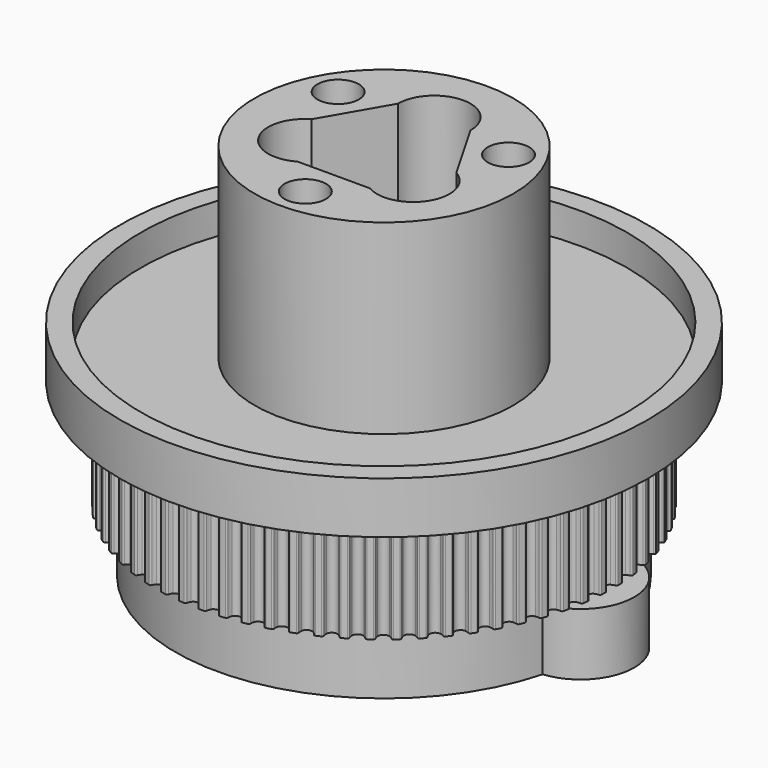
from build123d import *

# Parameters (mm, degrees)
REVOLUTION001_ANGLE = 360
SKETCHGEAR_R        = 4
PAD_DEPTH           = 10.5
SKETCH039_R         = 2
POCKET009_DEPTH     = 10
POLARPATTERN_COUNT  = 3
SKETCH040_R         = 20.15
SKETCH040_R_2       = 15
PAD019_DEPTH        = 6
POCKET013_DEPTH     = 36.501
PAD021_DEPTH        = 6


with BuildPart() as part:
    # Sketch → Revolution001 (revolve, symmetric)
    with BuildSketch(Plane.XZ) as revolution001_sk:
        Polygon((12.5, 19), (12.5, 1), (23.5, 1), (23.5, 4), (25.5, 4), (25.5, -1), (4, -1), (4, 19), align=None)
    revolve(axis=Axis((0, 0, 0), (0, 0, 1)), revolution_arc=REVOLUTION001_ANGLE / 2)
    revolve(revolution001_sk.sketch, axis=Axis((0, 0, 0), (0, 0, -1)), revolution_arc=REVOLUTION001_ANGLE / 2)

    # SketchGear (on Face6 of Revolution001) → Pad (new body)
    with BuildSketch(Plane(origin=(0, 0, -1), x_dir=(1, 0, 0), z_dir=(0, 0, -1))):
        with BuildLine():
            ThreePointArc((22.027692, -0.75), (21.983758, -0.643934), (21.877692, -0.6))
            ThreePointArc((21.877692, -0.6), (21.698403, -0.544218), (21.527692, -0.466025))
            ThreePointArc((21.527692, -0.466025), (21.277692, 0), (21.527692, 0.466025))
            ThreePointArc((21.527692, 0.466025), (21.698403, 0.544218), (21.877692, 0.6))
            ThreePointArc((21.877692, 0.6), (21.983758, 0.643934), (22.027692, 0.75))
            Line((22.027692, 0.75), (22.006245, 1.227566))
            ThreePointArc((22.006245, 1.227566), (21.95298, 1.329267), (21.843402, 1.363517))
            ThreePointArc((21.843402, 1.363517), (21.659835, 1.403003), (21.482802, 1.465578))
            ThreePointArc((21.482802, 1.465578), (21.192034, 1.907318), (21.399254, 2.393877))
            ThreePointArc((21.399254, 2.393877), (21.562268, 2.487057), (21.735835, 2.558686))
            ThreePointArc((21.735835, 2.558686), (21.837536, 2.611951), (21.871786, 2.721528))
            Line((21.871786, 2.721528), (21.807616, 3.195249))
            ThreePointArc((21.807616, 3.195249), (21.745449, 3.291766), (21.633243, 3.316055))
            ThreePointArc((21.633243, 3.316055), (21.446875, 3.338928), (21.264945, 3.385382))
            ThreePointArc((21.264945, 3.385382), (20.935751, 3.799279), (21.098521, 4.302454))
            ThreePointArc((21.098521, 4.302454), (21.252527, 4.409871), (21.418974, 4.496771))
            ThreePointArc((21.418974, 4.496771), (21.515491, 4.558937), (21.53978, 4.671143))
            Line((21.53978, 4.671143), (21.433405, 5.137206))
            ThreePointArc((21.433405, 5.137206), (21.362836, 5.227761), (21.248905, 5.241894))
            ThreePointArc((21.248905, 5.241894), (21.061237, 5.247969), (20.875876, 5.277928))
            ThreePointArc((20.875876, 5.277928), (20.510905, 5.66065), (20.627916, 6.17639))
            ThreePointArc((20.627916, 6.17639), (20.771673, 6.29718), (20.92966, 6.39865))
            ThreePointArc((20.92966, 6.39865), (21.020216, 6.469218), (21.034349, 6.58315))
            Line((21.034349, 6.58315), (20.886625, 7.0378))
            ThreePointArc((20.886625, 7.0378), (20.808223, 7.121666), (20.693483, 7.125529))
            ThreePointArc((20.693483, 7.125529), (20.506026, 7.114757), (20.318726, 7.12798))
            ThreePointArc((20.318726, 7.12798), (19.920917, 7.476445), (19.991226, 8.000598))
            ThreePointArc((19.991226, 8.000598), (20.123577, 8.133788), (20.271833, 8.249011))
            ThreePointArc((20.271833, 8.249011), (20.355699, 8.327413), (20.359562, 8.442153))
            Line((20.359562, 8.442153), (20.171678, 8.881731))
            ThreePointArc((20.171678, 8.881731), (20.086074, 8.958231), (19.97145, 8.951794))
            ThreePointArc((19.97145, 8.951794), (19.785713, 8.924261), (19.597981, 8.920641))
            ThreePointArc((19.597981, 8.920641), (19.170538, 9.232045), (19.193579, 9.76039))
            ThreePointArc((19.193579, 9.76039), (19.313458, 9.904907), (19.450789, 10.032956))
            ThreePointArc((19.450789, 10.032956), (19.527289, 10.11856), (19.520852, 10.233184))
            Line((19.520852, 10.233184), (19.29432, 10.654151))
            ThreePointArc((19.29432, 10.654151), (19.202204, 10.722669), (19.088618, 10.705983))
            ThreePointArc((19.088618, 10.705983), (18.906097, 10.661912), (18.719445, 10.641479))
            ThreePointArc((18.719445, 10.641479), (18.265809, 10.913313), (18.241397, 11.441597))
            ThreePointArc((18.241397, 11.441597), (18.347839, 11.596278), (18.473139, 11.736122))
            ThreePointArc((18.473139, 11.736122), (18.541657, 11.828238), (18.524971, 11.941824))
            Line((18.524971, 11.941824), (18.261616, 12.34079))
            ThreePointArc((18.261616, 12.34079), (18.163729, 12.400775), (18.052096, 12.373975))
            ThreePointArc((18.052096, 12.373975), (17.87426, 12.31372), (17.690192, 12.276637))
            ThreePointArc((17.690192, 12.276637), (17.214014, 12.506714), (17.142346, 13.030682))
            ThreePointArc((17.142346, 13.030682), (17.234494, 13.194283), (17.346754, 13.344795))
            ThreePointArc((17.346754, 13.344795), (17.406739, 13.442682), (17.379938, 13.554315))
            Line((17.379938, 13.554315), (17.08188, 13.928068))
            ThreePointArc((17.08188, 13.928068), (16.97901, 13.979037), (16.870229, 13.942338))
            ThreePointArc((16.870229, 13.942338), (16.69851, 13.866385), (16.518507, 13.812952))
            ThreePointArc((16.518507, 13.812952), (16.023623, 13.999418), (15.905274, 14.514853))
            ThreePointArc((15.905274, 14.514853), (15.982386, 14.686054), (16.080702, 14.846024))
            ThreePointArc((16.080702, 14.846024), (16.131672, 14.948894), (16.094972, 15.057675))
            Line((16.094972, 15.057675), (15.764611, 15.403206))
            ThreePointArc((15.764611, 15.403206), (15.657586, 15.444749), (15.552533, 15.398446))
            ThreePointArc((15.552533, 15.398446), (15.388314, 15.307406), (15.213825, 15.238052))
            ThreePointArc((15.213825, 15.238052), (14.704218, 15.379407), (14.540143, 15.882158))
            ThreePointArc((14.540143, 15.882158), (14.601598, 16.059583), (14.685179, 16.227721))
            ThreePointArc((14.685179, 16.227721), (14.726722, 16.334746), (14.680419, 16.4398))
            Line((14.680419, 16.4398), (14.320415, 16.754326))
            ThreePointArc((14.320415, 16.754326), (14.210097, 16.786108), (14.109617, 16.730575))
            ThreePointArc((14.109617, 16.730575), (13.954219, 16.62518), (13.78665, 16.540465))
            ThreePointArc((13.78665, 16.540465), (13.266424, 16.63557), (13.057943, 17.121589))
            ThreePointArc((13.057943, 17.121589), (13.103247, 17.303809), (13.171419, 17.478762))
            ThreePointArc((13.171419, 17.478762), (13.203201, 17.58908), (13.147668, 17.68956))
            Line((13.147668, 17.68956), (12.760919, 17.97055))
            ThreePointArc((12.760919, 17.97055), (12.648196, 17.992315), (12.553098, 17.927998))
            ThreePointArc((12.553098, 17.927998), (12.407774, 17.809099), (12.248473, 17.709704))
            ThreePointArc((12.248473, 17.709704), (11.721816, 17.757793), (11.470608, 18.223168))
            ThreePointArc((11.470608, 18.223168), (11.499395, 18.408715), (11.551611, 18.589075))
            ThreePointArc((11.551611, 18.589075), (11.573376, 18.701798), (11.509059, 18.796895))
            Line((11.509059, 18.796895), (11.09868, 19.042086))
            ThreePointArc((11.09868, 19.042086), (10.984459, 19.053659), (10.89551, 18.981077))
            ThreePointArc((10.89551, 18.981077), (10.761429, 18.849629), (10.611679, 18.736355))
            ThreePointArc((10.611679, 18.736355), (10.082831, 18.737041), (9.790919, 19.178024))
            ThreePointArc((9.790919, 19.178024), (9.802958, 19.365404), (9.838795, 19.549719))
            ThreePointArc((9.838795, 19.549719), (9.850369, 19.663939), (9.777786, 19.752889))
            Line((9.777786, 19.752889), (9.34708, 19.960306))
            ThreePointArc((9.34708, 19.960306), (9.232282, 19.961594), (9.150197, 19.88133))
            ThreePointArc((9.150197, 19.88133), (9.028439, 19.738393), (8.889445, 19.612151))
            ThreePointArc((8.889445, 19.612151), (8.362666, 19.565429), (8.032399, 19.97847))
            ThreePointArc((8.032399, 19.97847), (8.027592, 20.166175), (8.046764, 20.35296))
            ThreePointArc((8.046764, 20.35296), (8.048052, 20.467758), (7.967789, 20.549843))
            Line((7.967789, 20.549843), (7.520224, 20.717817))
            ThreePointArc((7.520224, 20.717817), (7.405772, 20.70881), (7.331213, 20.621511))
            ThreePointArc((7.331213, 20.621511), (7.222757, 20.468235), (7.095639, 20.330042))
            ThreePointArc((7.095639, 20.330042), (6.575168, 20.236288), (6.209206, 20.618062))
            ThreePointArc((6.209206, 20.618062), (6.187594, 20.80458), (6.189945, 20.992332))
            ThreePointArc((6.189945, 20.992332), (6.180937, 21.106783), (6.093639, 21.181343))
            Line((6.093639, 21.181343), (5.632819, 21.308521))
            ThreePointArc((5.632819, 21.308521), (5.519636, 21.289291), (5.453201, 21.19566))
            ThreePointArc((5.453201, 21.19566), (5.358922, 21.033279), (5.244703, 20.884247))
            ThreePointArc((5.244703, 20.884247), (4.734732, 20.744216), (4.336021, 21.091648))
            ThreePointArc((4.336021, 21.091648), (4.297776, 21.275479), (4.283288, 21.462685))
            ThreePointArc((4.283288, 21.462685), (4.264057, 21.575868), (4.170427, 21.642303))
            Line((4.170427, 21.642303), (3.700061, 21.727661))
            ThreePointArc((3.700061, 21.727661), (3.589058, 21.698362), (3.531284, 21.599154))
            ThreePointArc((3.531284, 21.599154), (3.45194, 21.428975), (3.35154, 21.270305))
            ThreePointArc((3.35154, 21.270305), (2.856174, 21.085124), (2.427925, 21.395417))
            ThreePointArc((2.427925, 21.395417), (2.373355, 21.575079), (2.342144, 21.760234))
            ThreePointArc((2.342144, 21.760234), (2.312845, 21.871237), (2.213637, 21.929011))
            Line((2.213637, 21.929011), (1.737513, 21.971863))
            ThreePointArc((1.737513, 21.971863), (1.629583, 21.932732), (1.580935, 21.828744))
            ThreePointArc((1.580935, 21.828744), (1.517165, 21.652138), (1.431392, 21.485107))
            ThreePointArc((1.431392, 21.485107), (0.95462, 21.256267), (0.50028, 21.526923))
            ThreePointArc((0.50028, 21.526923), (0.429826, 21.70097), (0.382143, 21.882582))
            ThreePointArc((0.382143, 21.882582), (0.343012, 21.990512), (0.239024, 22.03916))
            Line((0.239024, 22.03916), (-0.239024, 22.03916))
            ThreePointArc((-0.239024, 22.03916), (-0.343012, 21.990512), (-0.382143, 21.882582))
            ThreePointArc((-0.382143, 21.882582), (-0.429826, 21.70097), (-0.50028, 21.526923))
            ThreePointArc((-0.50028, 21.526923), (-0.95462, 21.256267), (-1.431392, 21.485107))
            ThreePointArc((-1.431392, 21.485107), (-1.517165, 21.652138), (-1.580935, 21.828744))
            ThreePointArc((-1.580935, 21.828744), (-1.629583, 21.932732), (-1.737513, 21.971863))
            Line((-1.737513, 21.971863), (-2.213637, 21.929011))
            ThreePointArc((-2.213637, 21.929011), (-2.312845, 21.871237), (-2.342144, 21.760234))
            ThreePointArc((-2.342144, 21.760234), (-2.373355, 21.575079), (-2.427925, 21.395417))
            ThreePointArc((-2.427925, 21.395417), (-2.856174, 21.085124), (-3.35154, 21.270305))
            ThreePointArc((-3.35154, 21.270305), (-3.45194, 21.428975), (-3.531284, 21.599154))
            ThreePointArc((-3.531284, 21.599154), (-3.589058, 21.698362), (-3.700061, 21.727661))
            Line((-3.700061, 21.727661), (-4.170427, 21.642303))
            ThreePointArc((-4.170427, 21.642303), (-4.264057, 21.575868), (-4.283288, 21.462685))
            ThreePointArc((-4.283288, 21.462685), (-4.297776, 21.275479), (-4.336021, 21.091648))
            ThreePointArc((-4.336021, 21.091648), (-4.734732, 20.744216), (-5.244703, 20.884247))
            ThreePointArc((-5.244703, 20.884247), (-5.358922, 21.033279), (-5.453201, 21.19566))
            ThreePointArc((-5.453201, 21.19566), (-5.519636, 21.289291), (-5.632819, 21.308521))
            Line((-5.632819, 21.308521), (-6.093639, 21.181343))
            ThreePointArc((-6.093639, 21.181343), (-6.180937, 21.106783), (-6.189945, 20.992332))
            ThreePointArc((-6.189945, 20.992332), (-6.187594, 20.80458), (-6.209206, 20.618062))
            ThreePointArc((-6.209206, 20.618062), (-6.575168, 20.236288), (-7.095639, 20.330042))
            ThreePointArc((-7.095639, 20.330042), (-7.222757, 20.468235), (-7.331213, 20.621511))
            ThreePointArc((-7.331213, 20.621511), (-7.405772, 20.70881), (-7.520224, 20.717817))
            Line((-7.520224, 20.717817), (-7.967789, 20.549843))
            ThreePointArc((-7.967789, 20.549843), (-8.048052, 20.467758), (-8.046764, 20.35296))
            ThreePointArc((-8.046764, 20.35296), (-8.027592, 20.166175), (-8.032399, 19.97847))
            ThreePointArc((-8.032399, 19.97847), (-8.362666, 19.565429), (-8.889445, 19.612151))
            ThreePointArc((-8.889445, 19.612151), (-9.028439, 19.738393), (-9.150197, 19.88133))
            ThreePointArc((-9.150197, 19.88133), (-9.232282, 19.961594), (-9.34708, 19.960306))
            Line((-9.34708, 19.960306), (-9.777786, 19.752889))
            ThreePointArc((-9.777786, 19.752889), (-9.850369, 19.663939), (-9.838795, 19.549719))
            ThreePointArc((-9.838795, 19.549719), (-9.802958, 19.365404), (-9.790919, 19.178024))
            ThreePointArc((-9.790919, 19.178024), (-10.082831, 18.737041), (-10.611679, 18.736355))
            ThreePointArc((-10.611679, 18.736355), (-10.761429, 18.849629), (-10.89551, 18.981077))
            ThreePointArc((-10.89551, 18.981077), (-10.984459, 19.053659), (-11.09868, 19.042086))
            Line((-11.09868, 19.042086), (-11.509059, 18.796895))
            ThreePointArc((-11.509059, 18.796895), (-11.573376, 18.701798), (-11.551611, 18.589075))
            ThreePointArc((-11.551611, 18.589075), (-11.499395, 18.408715), (-11.470608, 18.223168))
            ThreePointArc((-11.470608, 18.223168), (-11.721816, 17.757793), (-12.248473, 17.709704))
            ThreePointArc((-12.248473, 17.709704), (-12.407774, 17.809099), (-12.553098, 17.927998))
            ThreePointArc((-12.553098, 17.927998), (-12.648196, 17.992315), (-12.760919, 17.97055))
            Line((-12.760919, 17.97055), (-13.147668, 17.68956))
            ThreePointArc((-13.147668, 17.68956), (-13.203201, 17.58908), (-13.171419, 17.478762))
            ThreePointArc((-13.171419, 17.478762), (-13.103247, 17.303809), (-13.057943, 17.121589))
            ThreePointArc((-13.057943, 17.121589), (-13.266424, 16.63557), (-13.78665, 16.540465))
            ThreePointArc((-13.78665, 16.540465), (-13.954219, 16.62518), (-14.109617, 16.730575))
            ThreePointArc((-14.109617, 16.730575), (-14.210097, 16.786108), (-14.320415, 16.754326))
            Line((-14.320415, 16.754326), (-14.680419, 16.4398))
            ThreePointArc((-14.680419, 16.4398), (-14.726722, 16.334746), (-14.685179, 16.227721))
            ThreePointArc((-14.685179, 16.227721), (-14.601598, 16.059583), (-14.540143, 15.882158))
            ThreePointArc((-14.540143, 15.882158), (-14.704218, 15.379407), (-15.213825, 15.238052))
            ThreePointArc((-15.213825, 15.238052), (-15.388314, 15.307406), (-15.552533, 15.398446))
            ThreePointArc((-15.552533, 15.398446), (-15.657586, 15.444749), (-15.764611, 15.403206))
            Line((-15.764611, 15.403206), (-16.094972, 15.057675))
            ThreePointArc((-16.094972, 15.057675), (-16.131672, 14.948894), (-16.080702, 14.846024))
            ThreePointArc((-16.080702, 14.846024), (-15.982386, 14.686054), (-15.905274, 14.514853))
            ThreePointArc((-15.905274, 14.514853), (-16.023623, 13.999418), (-16.518507, 13.812952))
            ThreePointArc((-16.518507, 13.812952), (-16.69851, 13.866385), (-16.870229, 13.942338))
            ThreePointArc((-16.870229, 13.942338), (-16.97901, 13.979037), (-17.08188, 13.928068))
            Line((-17.08188, 13.928068), (-17.379938, 13.554315))
            ThreePointArc((-17.379938, 13.554315), (-17.406739, 13.442682), (-17.346754, 13.344795))
            ThreePointArc((-17.346754, 13.344795), (-17.234494, 13.194283), (-17.142346, 13.030682))
            ThreePointArc((-17.142346, 13.030682), (-17.214014, 12.506714), (-17.690192, 12.276637))
            ThreePointArc((-17.690192, 12.276637), (-17.87426, 12.31372), (-18.052096, 12.373975))
            ThreePointArc((-18.052096, 12.373975), (-18.163729, 12.400775), (-18.261616, 12.34079))
            Line((-18.261616, 12.34079), (-18.524971, 11.941824))
            ThreePointArc((-18.524971, 11.941824), (-18.541657, 11.828238), (-18.473139, 11.736122))
            ThreePointArc((-18.473139, 11.736122), (-18.347839, 11.596278), (-18.241397, 11.441597))
            ThreePointArc((-18.241397, 11.441597), (-18.265809, 10.913313), (-18.719445, 10.641479))
            ThreePointArc((-18.719445, 10.641479), (-18.906097, 10.661912), (-19.088618, 10.705983))
            ThreePointArc((-19.088618, 10.705983), (-19.202204, 10.722669), (-19.29432, 10.654151))
            Line((-19.29432, 10.654151), (-19.520852, 10.233184))
            ThreePointArc((-19.520852, 10.233184), (-19.527289, 10.11856), (-19.450789, 10.032956))
            ThreePointArc((-19.450789, 10.032956), (-19.313458, 9.904907), (-19.193579, 9.76039))
            ThreePointArc((-19.193579, 9.76039), (-19.170538, 9.232045), (-19.597981, 8.920641))
            ThreePointArc((-19.597981, 8.920641), (-19.785713, 8.924261), (-19.97145, 8.951794))
            ThreePointArc((-19.97145, 8.951794), (-20.086074, 8.958231), (-20.171678, 8.881731))
            Line((-20.171678, 8.881731), (-20.359562, 8.442153))
            ThreePointArc((-20.359562, 8.442153), (-20.355699, 8.327413), (-20.271833, 8.249011))
            ThreePointArc((-20.271833, 8.249011), (-20.123577, 8.133788), (-19.991226, 8.000598))
            ThreePointArc((-19.991226, 8.000598), (-19.920917, 7.476445), (-20.318726, 7.12798))
            ThreePointArc((-20.318726, 7.12798), (-20.506026, 7.114757), (-20.693483, 7.125529))
            ThreePointArc((-20.693483, 7.125529), (-20.808223, 7.121666), (-20.886625, 7.0378))
            Line((-20.886625, 7.0378), (-21.034349, 6.58315))
            ThreePointArc((-21.034349, 6.58315), (-21.020216, 6.469218), (-20.92966, 6.39865))
            ThreePointArc((-20.92966, 6.39865), (-20.771673, 6.29718), (-20.627916, 6.17639))
            ThreePointArc((-20.627916, 6.17639), (-20.510905, 5.66065), (-20.875876, 5.277928))
            ThreePointArc((-20.875876, 5.277928), (-21.061237, 5.247969), (-21.248905, 5.241894))
            ThreePointArc((-21.248905, 5.241894), (-21.362836, 5.227761), (-21.433405, 5.137206))
            Line((-21.433405, 5.137206), (-21.53978, 4.671143))
            ThreePointArc((-21.53978, 4.671143), (-21.515491, 4.558937), (-21.418974, 4.496771))
            ThreePointArc((-21.418974, 4.496771), (-21.252527, 4.409871), (-21.098521, 4.302454))
            ThreePointArc((-21.098521, 4.302454), (-20.935751, 3.799279), (-21.264945, 3.385382))
            ThreePointArc((-21.264945, 3.385382), (-21.446875, 3.338928), (-21.633243, 3.316055))
            ThreePointArc((-21.633243, 3.316055), (-21.745449, 3.291766), (-21.807616, 3.195249))
            Line((-21.807616, 3.195249), (-21.871786, 2.721528))
            ThreePointArc((-21.871786, 2.721528), (-21.837536, 2.611951), (-21.735835, 2.558686))
            ThreePointArc((-21.735835, 2.558686), (-21.562268, 2.487057), (-21.399254, 2.393877))
            ThreePointArc((-21.399254, 2.393877), (-21.192034, 1.907318), (-21.482802, 1.465578))
            ThreePointArc((-21.482802, 1.465578), (-21.659835, 1.403003), (-21.843402, 1.363517))
            ThreePointArc((-21.843402, 1.363517), (-21.95298, 1.329267), (-22.006245, 1.227566))
            Line((-22.006245, 1.227566), (-22.027692, 0.75))
            ThreePointArc((-22.027692, 0.75), (-21.983758, 0.643934), (-21.877692, 0.6))
            ThreePointArc((-21.877692, 0.6), (-21.698403, 0.544218), (-21.527692, 0.466025))
            ThreePointArc((-21.527692, 0.466025), (-21.277692, 0), (-21.527692, -0.466025))
            ThreePointArc((-21.527692, -0.466025), (-21.698403, -0.544218), (-21.877692, -0.6))
            ThreePointArc((-21.877692, -0.6), (-21.983758, -0.643934), (-22.027692, -0.75))
            Line((-22.027692, -0.75), (-22.006245, -1.227566))
            ThreePointArc((-22.006245, -1.227566), (-21.95298, -1.329267), (-21.843402, -1.363517))
            ThreePointArc((-21.843402, -1.363517), (-21.659835, -1.403003), (-21.482802, -1.465578))
            ThreePointArc((-21.482802, -1.465578), (-21.192034, -1.907318), (-21.399254, -2.393877))
            ThreePointArc((-21.399254, -2.393877), (-21.562268, -2.487057), (-21.735835, -2.558686))
            ThreePointArc((-21.735835, -2.558686), (-21.837536, -2.611951), (-21.871786, -2.721528))
            Line((-21.871786, -2.721528), (-21.807616, -3.195249))
            ThreePointArc((-21.807616, -3.195249), (-21.745449, -3.291766), (-21.633243, -3.316055))
            ThreePointArc((-21.633243, -3.316055), (-21.446875, -3.338928), (-21.264945, -3.385382))
            ThreePointArc((-21.264945, -3.385382), (-20.935751, -3.799279), (-21.098521, -4.302454))
            ThreePointArc((-21.098521, -4.302454), (-21.252527, -4.409871), (-21.418974, -4.496771))
            ThreePointArc((-21.418974, -4.496771), (-21.515491, -4.558937), (-21.53978, -4.671143))
            Line((-21.53978, -4.671143), (-21.433405, -5.137206))
            ThreePointArc((-21.433405, -5.137206), (-21.362836, -5.227761), (-21.248905, -5.241894))
            ThreePointArc((-21.248905, -5.241894), (-21.061237, -5.247969), (-20.875876, -5.277928))
            ThreePointArc((-20.875876, -5.277928), (-20.510905, -5.66065), (-20.627916, -6.17639))
            ThreePointArc((-20.627916, -6.17639), (-20.771673, -6.29718), (-20.92966, -6.39865))
            ThreePointArc((-20.92966, -6.39865), (-21.020216, -6.469218), (-21.034349, -6.58315))
            Line((-21.034349, -6.58315), (-20.886625, -7.0378))
            ThreePointArc((-20.886625, -7.0378), (-20.808223, -7.121666), (-20.693483, -7.125529))
            ThreePointArc((-20.693483, -7.125529), (-20.506026, -7.114757), (-20.318726, -7.12798))
            ThreePointArc((-20.318726, -7.12798), (-19.920917, -7.476445), (-19.991226, -8.000598))
            ThreePointArc((-19.991226, -8.000598), (-20.123577, -8.133788), (-20.271833, -8.249011))
            ThreePointArc((-20.271833, -8.249011), (-20.355699, -8.327413), (-20.359562, -8.442153))
            Line((-20.359562, -8.442153), (-20.171678, -8.881731))
            ThreePointArc((-20.171678, -8.881731), (-20.086074, -8.958231), (-19.97145, -8.951794))
            ThreePointArc((-19.97145, -8.951794), (-19.785713, -8.924261), (-19.597981, -8.920641))
            ThreePointArc((-19.597981, -8.920641), (-19.170538, -9.232045), (-19.193579, -9.76039))
            ThreePointArc((-19.193579, -9.76039), (-19.313458, -9.904907), (-19.450789, -10.032956))
            ThreePointArc((-19.450789, -10.032956), (-19.527289, -10.11856), (-19.520852, -10.233184))
            Line((-19.520852, -10.233184), (-19.29432, -10.654151))
            ThreePointArc((-19.29432, -10.654151), (-19.202204, -10.722669), (-19.088618, -10.705983))
            ThreePointArc((-19.088618, -10.705983), (-18.906097, -10.661912), (-18.719445, -10.641479))
            ThreePointArc((-18.719445, -10.641479), (-18.265809, -10.913313), (-18.241397, -11.441597))
            ThreePointArc((-18.241397, -11.441597), (-18.347839, -11.596278), (-18.473139, -11.736122))
            ThreePointArc((-18.473139, -11.736122), (-18.541657, -11.828238), (-18.524971, -11.941824))
            Line((-18.524971, -11.941824), (-18.261616, -12.34079))
            ThreePointArc((-18.261616, -12.34079), (-18.163729, -12.400775), (-18.052096, -12.373975))
            ThreePointArc((-18.052096, -12.373975), (-17.87426, -12.31372), (-17.690192, -12.276637))
            ThreePointArc((-17.690192, -12.276637), (-17.214014, -12.506714), (-17.142346, -13.030682))
            ThreePointArc((-17.142346, -13.030682), (-17.234494, -13.194283), (-17.346754, -13.344795))
            ThreePointArc((-17.346754, -13.344795), (-17.406739, -13.442682), (-17.379938, -13.554315))
            Line((-17.379938, -13.554315), (-17.08188, -13.928068))
            ThreePointArc((-17.08188, -13.928068), (-16.97901, -13.979037), (-16.870229, -13.942338))
            ThreePointArc((-16.870229, -13.942338), (-16.69851, -13.866385), (-16.518507, -13.812952))
            ThreePointArc((-16.518507, -13.812952), (-16.023623, -13.999418), (-15.905274, -14.514853))
            ThreePointArc((-15.905274, -14.514853), (-15.982386, -14.686054), (-16.080702, -14.846024))
            ThreePointArc((-16.080702, -14.846024), (-16.131672, -14.948894), (-16.094972, -15.057675))
            Line((-16.094972, -15.057675), (-15.764611, -15.403206))
            ThreePointArc((-15.764611, -15.403206), (-15.657586, -15.444749), (-15.552533, -15.398446))
            ThreePointArc((-15.552533, -15.398446), (-15.388314, -15.307406), (-15.213825, -15.238052))
            ThreePointArc((-15.213825, -15.238052), (-14.704218, -15.379407), (-14.540143, -15.882158))
            ThreePointArc((-14.540143, -15.882158), (-14.601598, -16.059583), (-14.685179, -16.227721))
            ThreePointArc((-14.685179, -16.227721), (-14.726722, -16.334746), (-14.680419, -16.4398))
            Line((-14.680419, -16.4398), (-14.320415, -16.754326))
            ThreePointArc((-14.320415, -16.754326), (-14.210097, -16.786108), (-14.109617, -16.730575))
            ThreePointArc((-14.109617, -16.730575), (-13.954219, -16.62518), (-13.78665, -16.540465))
            ThreePointArc((-13.78665, -16.540465), (-13.266424, -16.63557), (-13.057943, -17.121589))
            ThreePointArc((-13.057943, -17.121589), (-13.103247, -17.303809), (-13.171419, -17.478762))
            ThreePointArc((-13.171419, -17.478762), (-13.203201, -17.58908), (-13.147668, -17.68956))
            Line((-13.147668, -17.68956), (-12.760919, -17.97055))
            ThreePointArc((-12.760919, -17.97055), (-12.648196, -17.992315), (-12.553098, -17.927998))
            ThreePointArc((-12.553098, -17.927998), (-12.407774, -17.809099), (-12.248473, -17.709704))
            ThreePointArc((-12.248473, -17.709704), (-11.721816, -17.757793), (-11.470608, -18.223168))
            ThreePointArc((-11.470608, -18.223168), (-11.499395, -18.408715), (-11.551611, -18.589075))
            ThreePointArc((-11.551611, -18.589075), (-11.573376, -18.701798), (-11.509059, -18.796895))
            Line((-11.509059, -18.796895), (-11.09868, -19.042086))
            ThreePointArc((-11.09868, -19.042086), (-10.984459, -19.053659), (-10.89551, -18.981077))
            ThreePointArc((-10.89551, -18.981077), (-10.761429, -18.849629), (-10.611679, -18.736355))
            ThreePointArc((-10.611679, -18.736355), (-10.082831, -18.737041), (-9.790919, -19.178024))
            ThreePointArc((-9.790919, -19.178024), (-9.802958, -19.365404), (-9.838795, -19.549719))
            ThreePointArc((-9.838795, -19.549719), (-9.850369, -19.663939), (-9.777786, -19.752889))
            Line((-9.777786, -19.752889), (-9.34708, -19.960306))
            ThreePointArc((-9.34708, -19.960306), (-9.232282, -19.961594), (-9.150197, -19.88133))
            ThreePointArc((-9.150197, -19.88133), (-9.028439, -19.738393), (-8.889445, -19.612151))
            ThreePointArc((-8.889445, -19.612151), (-8.362666, -19.565429), (-8.032399, -19.97847))
            ThreePointArc((-8.032399, -19.97847), (-8.027592, -20.166175), (-8.046764, -20.35296))
            ThreePointArc((-8.046764, -20.35296), (-8.048052, -20.467758), (-7.967789, -20.549843))
            Line((-7.967789, -20.549843), (-7.520224, -20.717817))
            ThreePointArc((-7.520224, -20.717817), (-7.405772, -20.70881), (-7.331213, -20.621511))
            ThreePointArc((-7.331213, -20.621511), (-7.222757, -20.468235), (-7.095639, -20.330042))
            ThreePointArc((-7.095639, -20.330042), (-6.575168, -20.236288), (-6.209206, -20.618062))
            ThreePointArc((-6.209206, -20.618062), (-6.187594, -20.80458), (-6.189945, -20.992332))
            ThreePointArc((-6.189945, -20.992332), (-6.180937, -21.106783), (-6.093639, -21.181343))
            Line((-6.093639, -21.181343), (-5.632819, -21.308521))
            ThreePointArc((-5.632819, -21.308521), (-5.519636, -21.289291), (-5.453201, -21.19566))
            ThreePointArc((-5.453201, -21.19566), (-5.358922, -21.033279), (-5.244703, -20.884247))
            ThreePointArc((-5.244703, -20.884247), (-4.734732, -20.744216), (-4.336021, -21.091648))
            ThreePointArc((-4.336021, -21.091648), (-4.297776, -21.275479), (-4.283288, -21.462685))
            ThreePointArc((-4.283288, -21.462685), (-4.264057, -21.575868), (-4.170427, -21.642303))
            Line((-4.170427, -21.642303), (-3.700061, -21.727661))
            ThreePointArc((-3.700061, -21.727661), (-3.589058, -21.698362), (-3.531284, -21.599154))
            ThreePointArc((-3.531284, -21.599154), (-3.45194, -21.428975), (-3.35154, -21.270305))
            ThreePointArc((-3.35154, -21.270305), (-2.856174, -21.085124), (-2.427925, -21.395417))
            ThreePointArc((-2.427925, -21.395417), (-2.373355, -21.575079), (-2.342144, -21.760234))
            ThreePointArc((-2.342144, -21.760234), (-2.312845, -21.871237), (-2.213637, -21.929011))
            Line((-2.213637, -21.929011), (-1.737513, -21.971863))
            ThreePointArc((-1.737513, -21.971863), (-1.629583, -21.932732), (-1.580935, -21.828744))
            ThreePointArc((-1.580935, -21.828744), (-1.517165, -21.652138), (-1.431392, -21.485107))
            ThreePointArc((-1.431392, -21.485107), (-0.95462, -21.256267), (-0.50028, -21.526923))
            ThreePointArc((-0.50028, -21.526923), (-0.429826, -21.70097), (-0.382143, -21.882582))
            ThreePointArc((-0.382143, -21.882582), (-0.343012, -21.990512), (-0.239024, -22.03916))
            Line((-0.239024, -22.03916), (0.239024, -22.03916))
            ThreePointArc((0.239024, -22.03916), (0.343012, -21.990512), (0.382143, -21.882582))
            ThreePointArc((0.382143, -21.882582), (0.429826, -21.70097), (0.50028, -21.526923))
            ThreePointArc((0.50028, -21.526923), (0.95462, -21.256267), (1.431392, -21.485107))
            ThreePointArc((1.431392, -21.485107), (1.517165, -21.652138), (1.580935, -21.828744))
            ThreePointArc((1.580935, -21.828744), (1.629583, -21.932732), (1.737513, -21.971863))
            Line((1.737513, -21.971863), (2.213637, -21.929011))
            ThreePointArc((2.213637, -21.929011), (2.312845, -21.871237), (2.342144, -21.760234))
            ThreePointArc((2.342144, -21.760234), (2.373355, -21.575079), (2.427925, -21.395417))
            ThreePointArc((2.427925, -21.395417), (2.856174, -21.085124), (3.35154, -21.270305))
            ThreePointArc((3.35154, -21.270305), (3.45194, -21.428975), (3.531284, -21.599154))
            ThreePointArc((3.531284, -21.599154), (3.589058, -21.698362), (3.700061, -21.727661))
            Line((3.700061, -21.727661), (4.170427, -21.642303))
            ThreePointArc((4.170427, -21.642303), (4.264057, -21.575868), (4.283288, -21.462685))
            ThreePointArc((4.283288, -21.462685), (4.297776, -21.275479), (4.336021, -21.091648))
            ThreePointArc((4.336021, -21.091648), (4.734732, -20.744216), (5.244703, -20.884247))
            ThreePointArc((5.244703, -20.884247), (5.358922, -21.033279), (5.453201, -21.19566))
            ThreePointArc((5.453201, -21.19566), (5.519636, -21.289291), (5.632819, -21.308521))
            Line((5.632819, -21.308521), (6.093639, -21.181343))
            ThreePointArc((6.093639, -21.181343), (6.180937, -21.106783), (6.189945, -20.992332))
            ThreePointArc((6.189945, -20.992332), (6.187594, -20.80458), (6.209206, -20.618062))
            ThreePointArc((6.209206, -20.618062), (6.575168, -20.236288), (7.095639, -20.330042))
            ThreePointArc((7.095639, -20.330042), (7.222757, -20.468235), (7.331213, -20.621511))
            ThreePointArc((7.331213, -20.621511), (7.405772, -20.70881), (7.520224, -20.717817))
            Line((7.520224, -20.717817), (7.967789, -20.549843))
            ThreePointArc((7.967789, -20.549843), (8.048052, -20.467758), (8.046764, -20.35296))
            ThreePointArc((8.046764, -20.35296), (8.027592, -20.166175), (8.032399, -19.97847))
            ThreePointArc((8.032399, -19.97847), (8.362666, -19.565429), (8.889445, -19.612151))
            ThreePointArc((8.889445, -19.612151), (9.028439, -19.738393), (9.150197, -19.88133))
            ThreePointArc((9.150197, -19.88133), (9.232282, -19.961594), (9.34708, -19.960306))
            Line((9.34708, -19.960306), (9.777786, -19.752889))
            ThreePointArc((9.777786, -19.752889), (9.850369, -19.663939), (9.838795, -19.549719))
            ThreePointArc((9.838795, -19.549719), (9.802958, -19.365404), (9.790919, -19.178024))
            ThreePointArc((9.790919, -19.178024), (10.082831, -18.737041), (10.611679, -18.736355))
            ThreePointArc((10.611679, -18.736355), (10.761429, -18.849629), (10.89551, -18.981077))
            ThreePointArc((10.89551, -18.981077), (10.984459, -19.053659), (11.09868, -19.042086))
            Line((11.09868, -19.042086), (11.509059, -18.796895))
            ThreePointArc((11.509059, -18.796895), (11.573376, -18.701798), (11.551611, -18.589075))
            ThreePointArc((11.551611, -18.589075), (11.499395, -18.408715), (11.470608, -18.223168))
            ThreePointArc((11.470608, -18.223168), (11.721816, -17.757793), (12.248473, -17.709704))
            ThreePointArc((12.248473, -17.709704), (12.407774, -17.809099), (12.553098, -17.927998))
            ThreePointArc((12.553098, -17.927998), (12.648196, -17.992315), (12.760919, -17.97055))
            Line((12.760919, -17.97055), (13.147668, -17.68956))
            ThreePointArc((13.147668, -17.68956), (13.203201, -17.58908), (13.171419, -17.478762))
            ThreePointArc((13.171419, -17.478762), (13.103247, -17.303809), (13.057943, -17.121589))
            ThreePointArc((13.057943, -17.121589), (13.266424, -16.63557), (13.78665, -16.540465))
            ThreePointArc((13.78665, -16.540465), (13.954219, -16.62518), (14.109617, -16.730575))
            ThreePointArc((14.109617, -16.730575), (14.210097, -16.786108), (14.320415, -16.754326))
            Line((14.320415, -16.754326), (14.680419, -16.4398))
            ThreePointArc((14.680419, -16.4398), (14.726722, -16.334746), (14.685179, -16.227721))
            ThreePointArc((14.685179, -16.227721), (14.601598, -16.059583), (14.540143, -15.882158))
            ThreePointArc((14.540143, -15.882158), (14.704218, -15.379407), (15.213825, -15.238052))
            ThreePointArc((15.213825, -15.238052), (15.388314, -15.307406), (15.552533, -15.398446))
            ThreePointArc((15.552533, -15.398446), (15.657586, -15.444749), (15.764611, -15.403206))
            Line((15.764611, -15.403206), (16.094972, -15.057675))
            ThreePointArc((16.094972, -15.057675), (16.131672, -14.948894), (16.080702, -14.846024))
            ThreePointArc((16.080702, -14.846024), (15.982386, -14.686054), (15.905274, -14.514853))
            ThreePointArc((15.905274, -14.514853), (16.023623, -13.999418), (16.518507, -13.812952))
            ThreePointArc((16.518507, -13.812952), (16.69851, -13.866385), (16.870229, -13.942338))
            ThreePointArc((16.870229, -13.942338), (16.97901, -13.979037), (17.08188, -13.928068))
            Line((17.08188, -13.928068), (17.379938, -13.554315))
            ThreePointArc((17.379938, -13.554315), (17.406739, -13.442682), (17.346754, -13.344795))
            ThreePointArc((17.346754, -13.344795), (17.234494, -13.194283), (17.142346, -13.030682))
            ThreePointArc((17.142346, -13.030682), (17.214014, -12.506714), (17.690192, -12.276637))
            ThreePointArc((17.690192, -12.276637), (17.87426, -12.31372), (18.052096, -12.373975))
            ThreePointArc((18.052096, -12.373975), (18.163729, -12.400775), (18.261616, -12.34079))
            Line((18.261616, -12.34079), (18.524971, -11.941824))
            ThreePointArc((18.524971, -11.941824), (18.541657, -11.828238), (18.473139, -11.736122))
            ThreePointArc((18.473139, -11.736122), (18.347839, -11.596278), (18.241397, -11.441597))
            ThreePointArc((18.241397, -11.441597), (18.265809, -10.913313), (18.719445, -10.641479))
            ThreePointArc((18.719445, -10.641479), (18.906097, -10.661912), (19.088618, -10.705983))
            ThreePointArc((19.088618, -10.705983), (19.202204, -10.722669), (19.29432, -10.654151))
            Line((19.29432, -10.654151), (19.520852, -10.233184))
            ThreePointArc((19.520852, -10.233184), (19.527289, -10.11856), (19.450789, -10.032956))
            ThreePointArc((19.450789, -10.032956), (19.313458, -9.904907), (19.193579, -9.76039))
            ThreePointArc((19.193579, -9.76039), (19.170538, -9.232045), (19.597981, -8.920641))
            ThreePointArc((19.597981, -8.920641), (19.785713, -8.924261), (19.97145, -8.951794))
            ThreePointArc((19.97145, -8.951794), (20.086074, -8.958231), (20.171678, -8.881731))
            Line((20.171678, -8.881731), (20.359562, -8.442153))
            ThreePointArc((20.359562, -8.442153), (20.355699, -8.327413), (20.271833, -8.249011))
            ThreePointArc((20.271833, -8.249011), (20.123577, -8.133788), (19.991226, -8.000598))
            ThreePointArc((19.991226, -8.000598), (19.920917, -7.476445), (20.318726, -7.12798))
            ThreePointArc((20.318726, -7.12798), (20.506026, -7.114757), (20.693483, -7.125529))
            ThreePointArc((20.693483, -7.125529), (20.808223, -7.121666), (20.886625, -7.0378))
            Line((20.886625, -7.0378), (21.034349, -6.58315))
            ThreePointArc((21.034349, -6.58315), (21.020216, -6.469218), (20.92966, -6.39865))
            ThreePointArc((20.92966, -6.39865), (20.771673, -6.29718), (20.627916, -6.17639))
            ThreePointArc((20.627916, -6.17639), (20.510905, -5.66065), (20.875876, -5.277928))
            ThreePointArc((20.875876, -5.277928), (21.061237, -5.247969), (21.248905, -5.241894))
            ThreePointArc((21.248905, -5.241894), (21.362836, -5.227761), (21.433405, -5.137206))
            Line((21.433405, -5.137206), (21.53978, -4.671143))
            ThreePointArc((21.53978, -4.671143), (21.515491, -4.558937), (21.418974, -4.496771))
            ThreePointArc((21.418974, -4.496771), (21.252527, -4.409871), (21.098521, -4.302454))
            ThreePointArc((21.098521, -4.302454), (20.935751, -3.799279), (21.264945, -3.385382))
            ThreePointArc((21.264945, -3.385382), (21.446875, -3.338928), (21.633243, -3.316055))
            ThreePointArc((21.633243, -3.316055), (21.745449, -3.291766), (21.807616, -3.195249))
            Line((21.807616, -3.195249), (21.871786, -2.721528))
            ThreePointArc((21.871786, -2.721528), (21.837536, -2.611951), (21.735835, -2.558686))
            ThreePointArc((21.735835, -2.558686), (21.562268, -2.487057), (21.399254, -2.393877))
            ThreePointArc((21.399254, -2.393877), (21.192034, -1.907318), (21.482802, -1.465578))
            ThreePointArc((21.482802, -1.465578), (21.659835, -1.403003), (21.843402, -1.363517))
            ThreePointArc((21.843402, -1.363517), (21.95298, -1.329267), (22.006245, -1.227566))
            Line((22.006245, -1.227566), (22.027692, -0.75))
        make_face()
        Circle(SKETCHGEAR_R, mode=Mode.SUBTRACT)
    extrude(amount=PAD_DEPTH)

    # Sketch039 (on Face2 of Pad) → Pocket009 (cut)
    with BuildSketch(Plane(origin=(0, 0, 19), x_dir=(-1, 0, 0), z_dir=(0, 0, 1))):
        with Locations((0, 9.5)):
            Circle(SKETCH039_R)
    pocket009 = extrude(amount=-POCKET009_DEPTH, mode=Mode.SUBTRACT)

    # PolarPattern: Pocket009 ×3 about axis
    polarpattern_axis = Axis((0, 0, 19), (0, 0, 1))
    for i in range(1, POLARPATTERN_COUNT):
        add(pocket009.rotate(polarpattern_axis, i * 360 / POLARPATTERN_COUNT), mode=Mode.SUBTRACT)

    # Sketch040 (on Face10 of PolarPattern) → Pad019 (join)
    with BuildSketch(Plane(origin=(0, 0, -11.5), x_dir=(1, 0, 0), z_dir=(0, 0, -1))):
        Circle(SKETCH040_R)
        Circle(SKETCH040_R_2, mode=Mode.SUBTRACT)
    extrude(amount=PAD019_DEPTH)

    # Sketch048 (on Face2 of Pad019) → Pocket013 (cut, through all)
    with BuildSketch(Plane(origin=(0, 0, 19), x_dir=(-1, 0, 0), z_dir=(0, 0, 1))):
        with BuildLine():
            Line((3.5, 6.062178), (-3.5, 6.062178))
            ThreePointArc((-3.5, 6.062178), (-8.290459, 4.786499), (-7, 0))
            Line((-7, 0), (-3.5, -6.062178))
            ThreePointArc((-3.5, -6.062178), (0, -9.571368), (3.5, -6.062178))
            Line((7, 0), (3.5, -6.062178))
            ThreePointArc((7, 0), (8.285039, 4.78337), (3.5, 6.062178))
        make_face()
    extrude(amount=-POCKET013_DEPTH, mode=Mode.SUBTRACT)

    # Sketch049 (on Face444 of Pocket013) → Pad021 (join)
    with BuildSketch(Plane(origin=(0, 0, -11.5), x_dir=(1, 0, 0), z_dir=(0, 0, -1))):
        with BuildLine():
            ThreePointArc((19.320979, -5.167182), (19.999998, 0.009523), (19.31605, 5.185579))
            ThreePointArc((19.320979, -5.167182), (24.184902, 0.011516), (19.31605, 5.185579))
        make_face()
    extrude(amount=PAD021_DEPTH)


with BuildPart() as part_1:
    # Body002 placement: moved
    add(part.part.moved(Location((5, 0, 6.96221))))


solid = part_1.part
